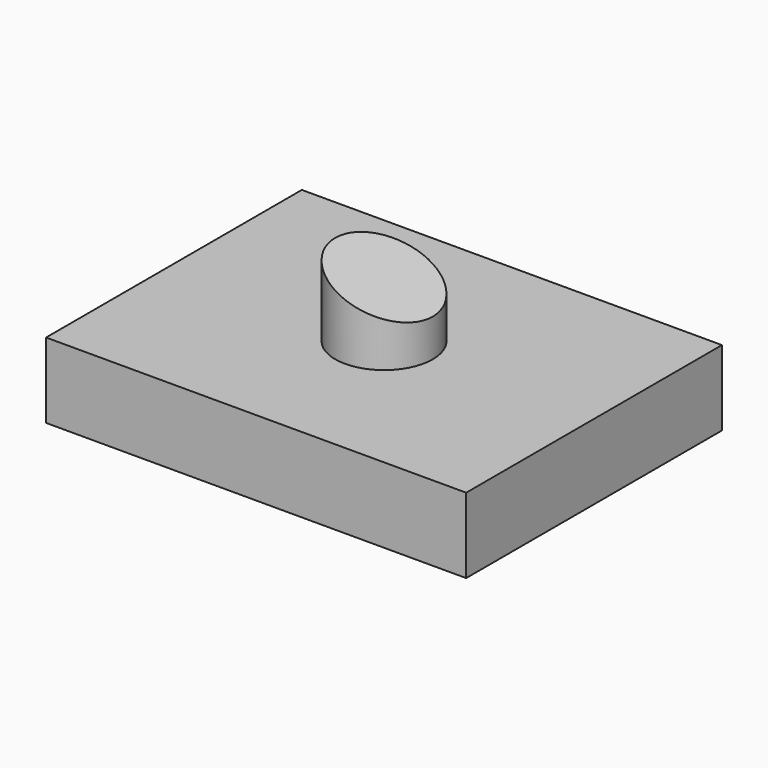
from build123d import *

# Parameters (mm, degrees)
F0_R     = 16.475764
F1_DEPTH = 50.8
F0_W     = 141.873404
F0_H     = 107.963092
F2_DEPTH = 25.4
F4_DEPTH = 107.964093


with BuildPart() as f1:
    # F0 (on Top) → F1 (new body)
    with BuildSketch(Plane.XY):
        Circle(F0_R)
    extrude(amount=F1_DEPTH)

    # F0 (on Top) → F2 (join)
    with BuildSketch(Plane.XY):
        Rectangle(F0_W, F0_H)
        Circle(F0_R, mode=Mode.SUBTRACT)
    extrude(amount=F2_DEPTH)

    # F3 (on face) → F4 (cut, through all)
    with BuildSketch(Plane.XZ.offset(53.981546)):
        Polygon((16.475764, 50.8), (-16.475764, 50.8), (16.475764, 38.1), align=None)
    extrude(amount=-F4_DEPTH, mode=Mode.SUBTRACT)


solid = f1.part
